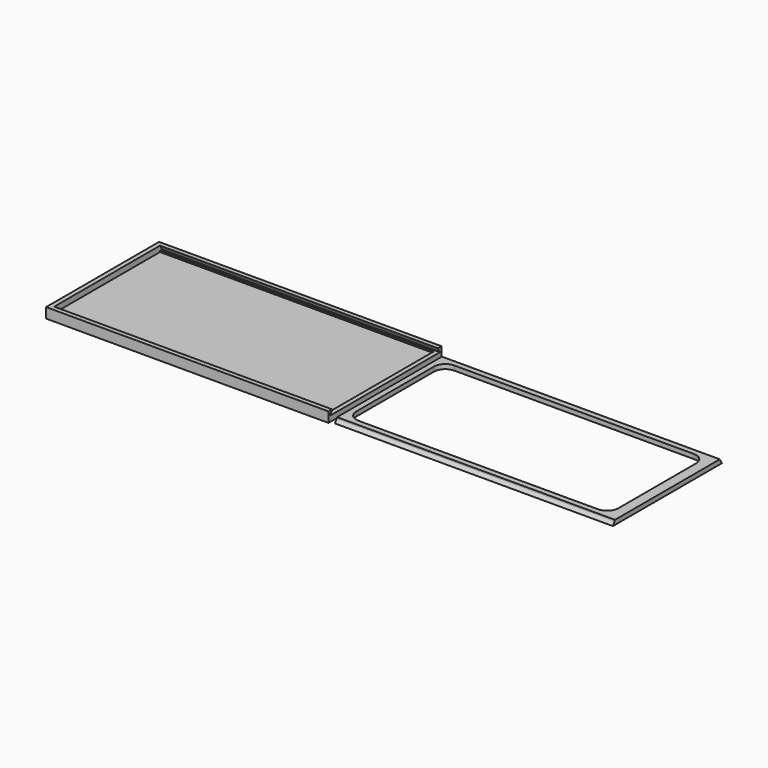
from build123d import *

# Parameters (mm, degrees)
F4_DEPTH  = 3.6
F3_W      = 47.6
F3_H      = 46.8
F3_W_2    = 1.6
F5_DEPTH  = 1.6
F6_DEPTH  = 2
F8_DEPTH  = 98.4
F9_START  = 1.6
F9_DEPTH  = 98.4
F11_W     = 92.8
F11_H     = 42.4
F13_DEPTH = 1.601
F14_R     = 4


with BuildPart() as f4:
    # F3 (on Top) → F4 (new body)
    with BuildSketch(Plane.XY):
        Polygon((0, 50), (0, 0), (100, 0), (100, 1.6), (98.4, 1.6), (50.8, 1.6), (49.2, 1.6), (1.6, 1.6), (1.6, 48.4), (49.2, 48.4), (50.8, 48.4), (98.4, 48.4), (100, 48.4), (100, 50), align=None)
    extrude(amount=F4_DEPTH)

    # F3 (on Top) → F5 (join)
    with BuildSketch(Plane.XY):
        with Locations((25.4, 25)):
            Rectangle(F3_W, F3_H)
        with Locations((50, 25)):
            Rectangle(F3_W_2, F3_H)
        with Locations((74.6, 25)):
            Rectangle(F3_W, F3_H)
    extrude(amount=F5_DEPTH)

    # F3 (on Top) → F6 (join)
    with BuildSketch(Plane.XY):
        with Locations((99.2, 25)):
            Rectangle(F3_W_2, F3_H)
    extrude(amount=F6_DEPTH)

    # F7 (on face) → F8 (cut)
    with BuildSketch(Plane.YZ.offset(100)):
        Polygon((0.6762395693, 2), (0.8762395693, 2), (1.6, 3.2535898385), (1.6, 3.6), align=None)
        Polygon((48.4, 3.2535898385), (49.1237604307, 2), (49.3237604307, 2), (48.4, 3.6), align=None)
        Polygon((0.8762395693, 2), (1.6, 2), (1.6, 3.2535898385), align=None)
        Polygon((48.4, 3.2535898385), (48.4, 2), (49.1237604307, 2), align=None)
    extrude(amount=-F8_DEPTH, mode=Mode.SUBTRACT)


with BuildPart() as f9:
    # F7 (on face) → F9 (new body)
    with BuildSketch(Plane.YZ.offset(100).offset(F9_START)):
        Polygon((1.6, 3.2535898385), (1.6, 2), (48.4, 2), (48.4, 3.2535898385), (48.2, 3.6), (1.8, 3.6), align=None)
        Polygon((0.8762395693, 2), (1.6, 2), (1.6, 3.2535898385), align=None)
        Polygon((48.4, 3.2535898385), (48.4, 2), (49.1237604307, 2), align=None)
    extrude(amount=F9_DEPTH)


with BuildPart() as f9_1:
    # F10: moved
    add(f9.part.moved(Location((0, 0, -2))))

    # F11 (on face) → F13 (cut, through all)
    with BuildSketch(Plane.XY.offset(1.6)):
        with Locations((150, 25)):
            Rectangle(F11_W, F11_H)
    extrude(amount=-F13_DEPTH, mode=Mode.SUBTRACT)

    # F14
    f14_edges = [f9_1.edges().sort_by_distance(p)[0] for p in [
        (103.6, 46.2, 0.8),
        (103.6, 3.8, 0.8),
        (196.4, 3.8, 0.8),
        (196.4, 46.2, 0.8),
    ]]
    fillet(f14_edges, radius=F14_R)


solid = Compound([f4.part, f9_1.part])
